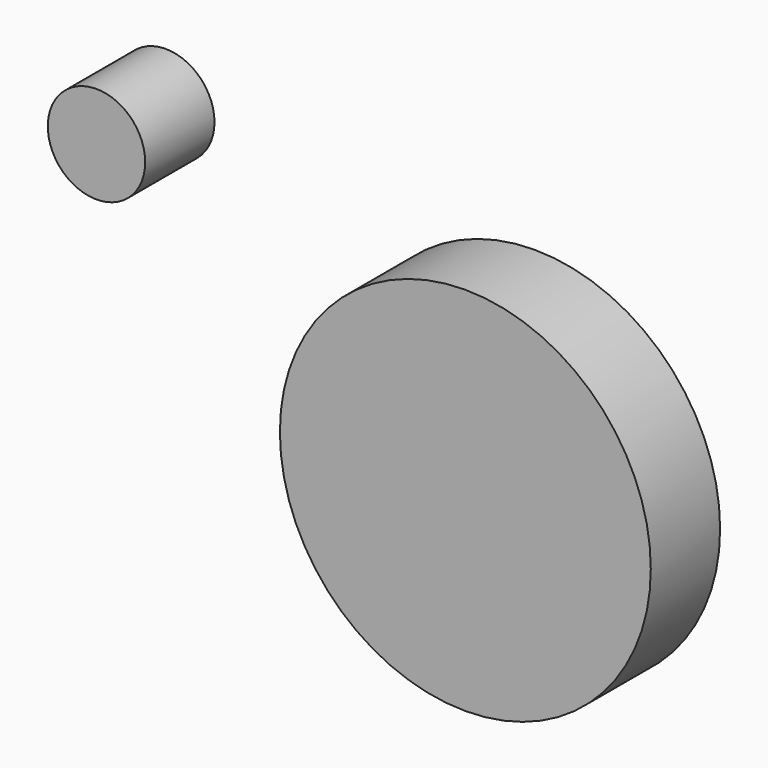
from build123d import *

# Parameters (mm, degrees)
F1_R     = 10.705391
F2_DEPTH = 19.05
F0_R     = 40.773942
F3_DEPTH = 19.05


with BuildPart() as f2:
    # F1 (on Front) → F2 (new body)
    with BuildSketch(Plane.XZ):
        with Locations((-81.098244, 42.567838)):
            Circle(F1_R)
    extrude(amount=F2_DEPTH)


with BuildPart() as f3:
    # F0 (on Front) → F3 (new body)
    with BuildSketch(Plane.XZ):
        Circle(F0_R)
    extrude(amount=F3_DEPTH)


solid = Compound([f2.part, f3.part])
